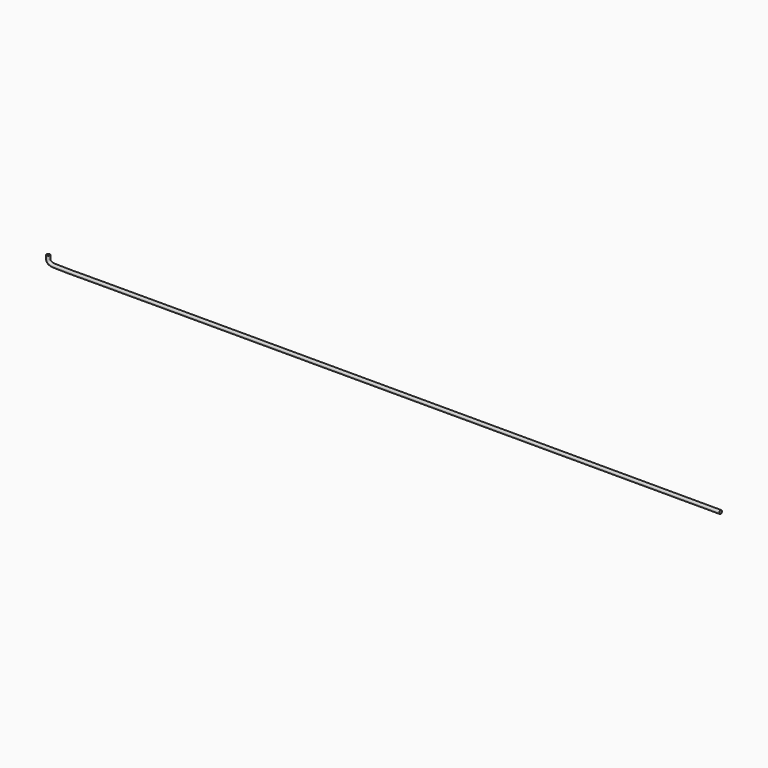
from build123d import *

# Parameters (mm, degrees)
F0_R = 1.25


with BuildPart() as f2:
    # F2: sweep along a path in F1
    with BuildLine(Plane.XZ) as f2_path:
        add(Plane.XZ * Edge.make_bspline(
            [(-1.25, 0), (-1.2508625119, -0.1961868904), (-1.2554781192, -1.28786641), (-1.2323486709, -2.0103310334), (-1.3407735787, -3.2331480133), (-0.745661267, -5.2844408345), (2.2859131008, -6.9974575767), (7.7361004713, -6.9485503464), (17.3983089814, -7.1642835735), (21.0570090281, -6.8180501267), (494.6802234719, -7.0310074086), (500, -7.0527171066)],
            knots=[0, 0, 0, 0, 0.029976927, 0.0546230165, 0.0838409052, 0.1220557785, 0.1700472941, 0.2352167741, 0.3098885261, 0.4073398736, 1, 1, 1, 1], degree=3))
    # F0 (on Top) → F2 (sweep)
    with BuildSketch(Plane.XY):
        Circle(F0_R)
    sweep(path=f2_path.line)


solid = f2.part
